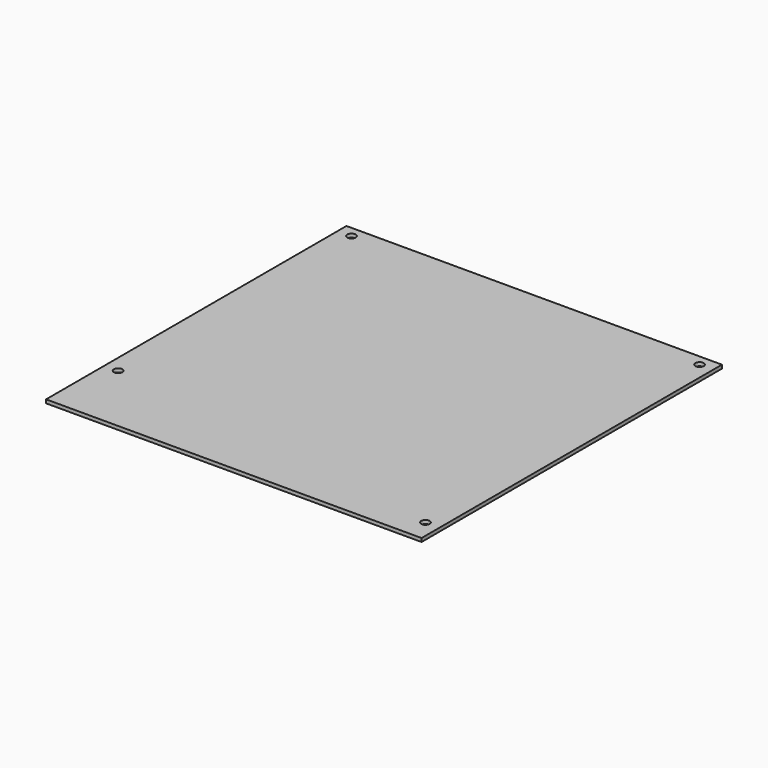
from build123d import *

# Parameters (mm, degrees)
F0_W     = 170
F0_H     = 170
F1_DEPTH = 1.6
F2_D     = 3.8


with BuildPart() as f1:
    # F0 (on Top) → F1 (new body)
    with BuildSketch(Plane.XY):
        Rectangle(F0_W, F0_H)
    extrude(amount=-F1_DEPTH)

    # F2 (through all)
    with Locations(Plane.XY):
        with Locations((78.8, 80.1), (78.6, -74.8), (-78.8, -52), (-78.8, 80.1)):
            Hole(F2_D / 2)


solid = f1.part
